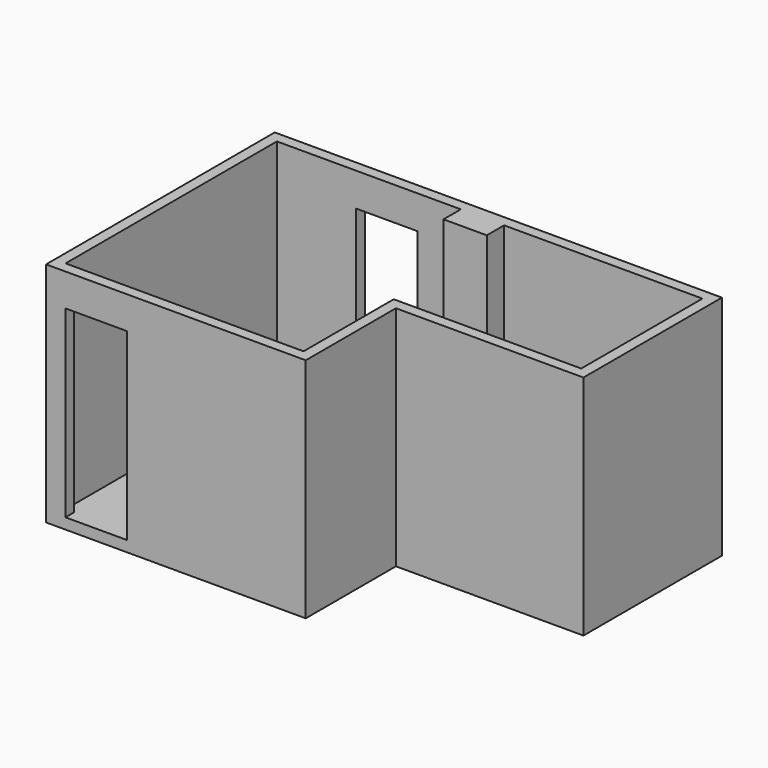
from build123d import *

# Parameters (mm, degrees)
F1_DEPTH = 3048
F3_DEPTH = 152.4
F4_W     = 863.6
F4_H     = 2590.8
F5_DEPTH = 152.401
F6_W     = 863.6
F6_H     = 1955.8
F7_DEPTH = 152.401
F8_W     = 609.6
F8_H     = 304.8
F9_DEPTH = 3048


with BuildPart() as f1:
    # F0 (on Top) → F1 (new body)
    with BuildSketch(Plane.XY):
        Polygon((6146.8, -2286), (6146.8, 152.4), (-152.4, 152.4), (-152.4, -3873.5), (3505.2, -3873.5), (3505.2, -2286), align=None)
        Polygon((0, -3721.1), (0, 0), (5994.4, 0), (5994.4, -2133.6), (3352.8, -2133.6), (3352.8, -3721.1), align=None, mode=Mode.SUBTRACT)
    extrude(amount=F1_DEPTH)

    # F2 (on face) → F3 (join)
    with BuildSketch(Plane(origin=(0, 0, 0), x_dir=(1, 0, 0), z_dir=(0, 0, -1))):
        Polygon((-152.4, 3873.5), (-152.4, -152.4), (6146.8, -152.4), (6146.8, 2286), (3505.2, 2286), (3505.2, 3873.5), align=None)
    extrude(amount=F3_DEPTH)

    # F4 (on face) → F5 (cut, through all)
    with BuildSketch(Plane(origin=(0, -3721.1, 0), x_dir=(-1, 0, 0), z_dir=(0, 1, 0))):
        with Locations((-552.45, 1295.4)):
            Rectangle(F4_W, F4_H)
    extrude(amount=-F5_DEPTH, mode=Mode.SUBTRACT)

    # F6 (on face) → F7 (cut, through all)
    with BuildSketch(Plane.XZ):
        with Locations((1549.4, 1600.2)):
            Rectangle(F6_W, F6_H)
    extrude(amount=-F7_DEPTH, mode=Mode.SUBTRACT)

    # F8 (on face) → F9 (join, through all)
    with BuildSketch(Plane.XY):
        with Locations((2895.6, -152.4)):
            Rectangle(F8_W, F8_H)
    extrude(amount=F9_DEPTH)


solid = f1.part
